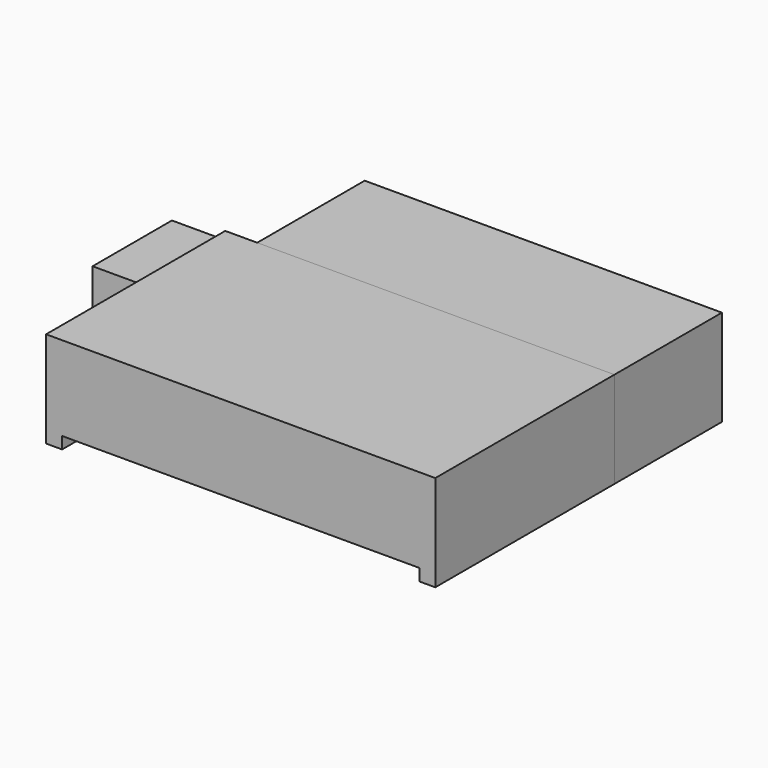
from build123d import *

# Parameters (mm, degrees)
SKETCH_W     = 730
SKETCH_H     = 420
PAD_DEPTH    = 158.1
SKETCH001_W  = 30
SKETCH001_H  = 420
PAD001_DEPTH = 22.34
PAD002_DEPTH = 186
SKETCH003_W  = 670
SKETCH003_H  = 252
PAD003_DEPTH = 180.44
SKETCH004_W  = 610
SKETCH004_H  = 22.34
POCKET_DEPTH = 462.001


with BuildPart() as obj1:
    # Sketch → Pad (new body)
    with BuildSketch(Plane.XY.offset(22.34)):
        Rectangle(SKETCH_W, SKETCH_H)
    extrude(amount=PAD_DEPTH)

    # Sketch001 → Pad001 (join)
    with BuildSketch(Plane.XY):
        with Locations((-350, 0)):
            Rectangle(SKETCH001_W, SKETCH001_H)
        with Locations((350, 0)):
            Rectangle(SKETCH001_W, SKETCH001_H)
    extrude(amount=PAD001_DEPTH)

    # Sketch002 → Pad002 (join)
    with BuildSketch(Plane.XZ.offset(-210)):
        Polygon((-465, 165.132446), (-365, 165.132446), (-365, 38.438764), (-465, 96.173791), align=None)
    extrude(amount=PAD002_DEPTH)


with BuildPart() as obj2:
    # Sketch003 → Pad003 (new body)
    with BuildSketch(Plane.XY):
        with Locations((30, 336)):
            Rectangle(SKETCH003_W, SKETCH003_H)
    extrude(amount=PAD003_DEPTH)

    # Sketch004 → Pocket (cut, through all)
    with BuildSketch(Plane.XZ):
        with Locations((30, 11.17)):
            Rectangle(SKETCH004_W, SKETCH004_H)
    extrude(amount=-POCKET_DEPTH, mode=Mode.SUBTRACT)


solid = Compound([obj1.part, obj2.part])
